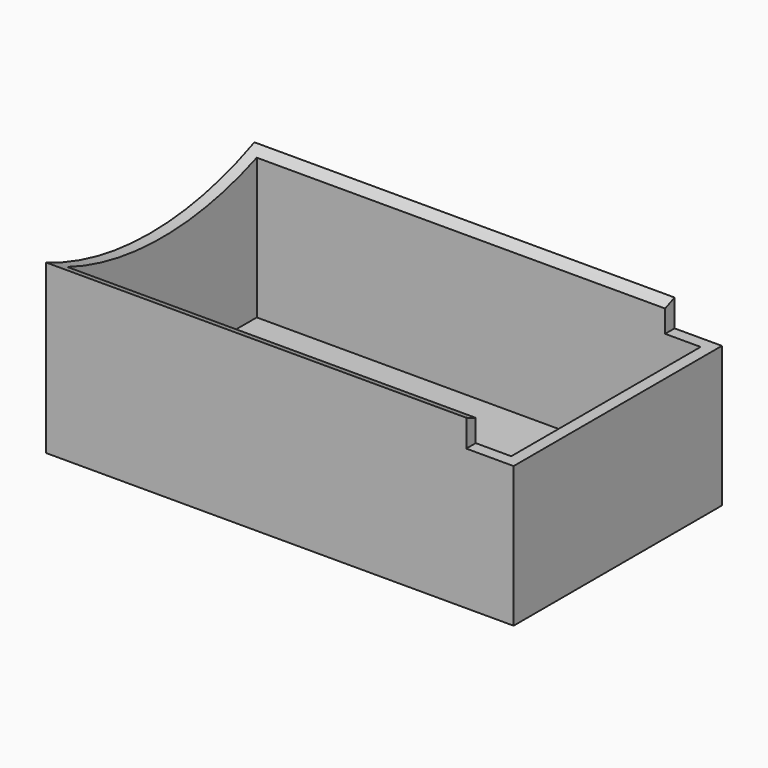
from build123d import *

# Parameters (mm, degrees)
F0_W          = 31.6
F0_H          = 17.6
F1_DEPTH      = 25
F2_W          = 30
F2_H          = 16
F3_DEPTH      = 23.5
F4_R          = 22
F5_DEPTH      = 12.6
F5_DEPTH_BACK = 15.801
F6_W          = 25
F6_H          = 50
F7_DEPTH      = 3.2


with BuildPart() as f1:
    # F0 (on Top) → F1 (new body)
    with BuildSketch(Plane.XY):
        Rectangle(F0_W, F0_H)
    extrude(amount=F1_DEPTH)

    # F2 (on face) → F3 (cut)
    with BuildSketch(Plane.XY.offset(25)):
        Rectangle(F2_W, F2_H)
    extrude(amount=-F3_DEPTH, mode=Mode.SUBTRACT)

    # F4 (on Right) → F5 (cut, two sides)
    with BuildSketch(Plane.YZ) as f5_sk:
        with Locations((0, 31.5)):
            Circle(F4_R)
    extrude(amount=F5_DEPTH, mode=Mode.SUBTRACT)
    extrude(f5_sk.sketch, amount=-F5_DEPTH_BACK, mode=Mode.SUBTRACT)

    # F6 (on face) → F7 (cut)
    with BuildSketch(Plane.YZ.offset(15.8)):
        with Locations((0, 34.5)):
            Rectangle(F6_W, F6_H)
    extrude(amount=-F7_DEPTH, mode=Mode.SUBTRACT)


solid = f1.part
